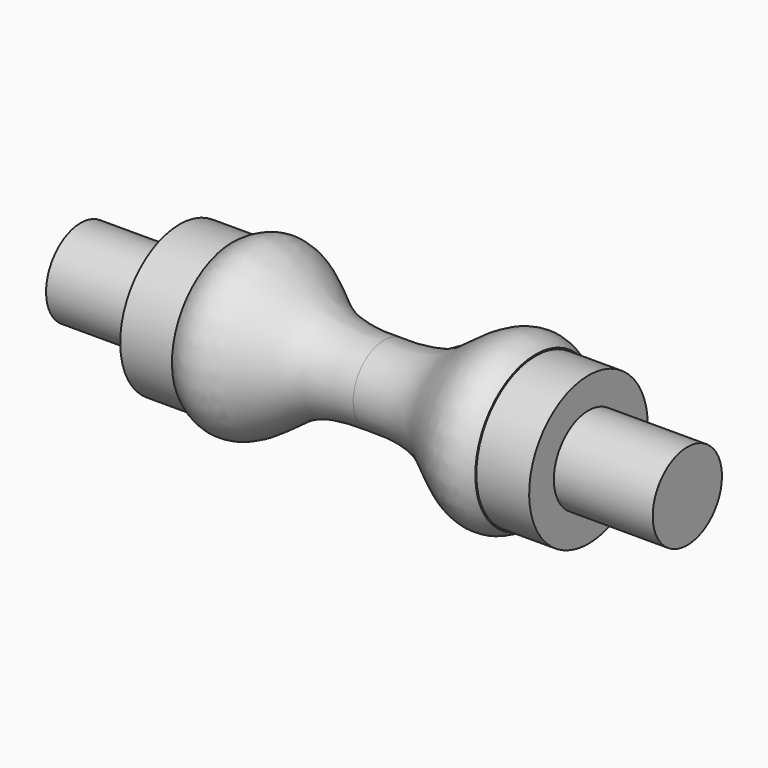
from build123d import *


with BuildPart() as f1:
    # F0 (on Front) → F1 (revolve)
    with BuildSketch(Plane.XZ):
        with BuildLine():
            Line((0, 15.6168507108), (0, 0))
            Line((0, 0), (122.722825751, 0))
            Line((122.722825751, 0), (122.722825751, 17.5))
            Line((122.722825751, 17.5), (82.722825751, 17.5))
            Line((82.722825751, 17.5), (82.722825751, 30))
            Line((82.722825751, 30), (61.3616965711, 30))
            Line((61.3616965711, 30), (61.3616965711, 30.5379312485))
            add(Edge.make_bspline(
                [(0, 15.6168507108), (8.6925121358, 15.4380108694), (23.9621084498, 16.768696765), (37.1572704312, 29.4112922637), (52.5918843675, 37.1907705526), (61.3616965711, 30.5379312485)],
                knots=[0, 0, 0, 0, 0.346953845, 0.6525832988, 1, 1, 1, 1], degree=3))
        make_face()
    revolve(axis=Axis((61.3614128755, 0, 0), (-1, 0, 0)))

    # F2: F1 across face


with BuildPart() as f1_1:
    add(f1.part)
    add(f1.part.mirror(Plane(origin=(0, 0, 0), x_dir=(0, -1, 0), z_dir=(-1, 0, 0))))


solid = f1_1.part
